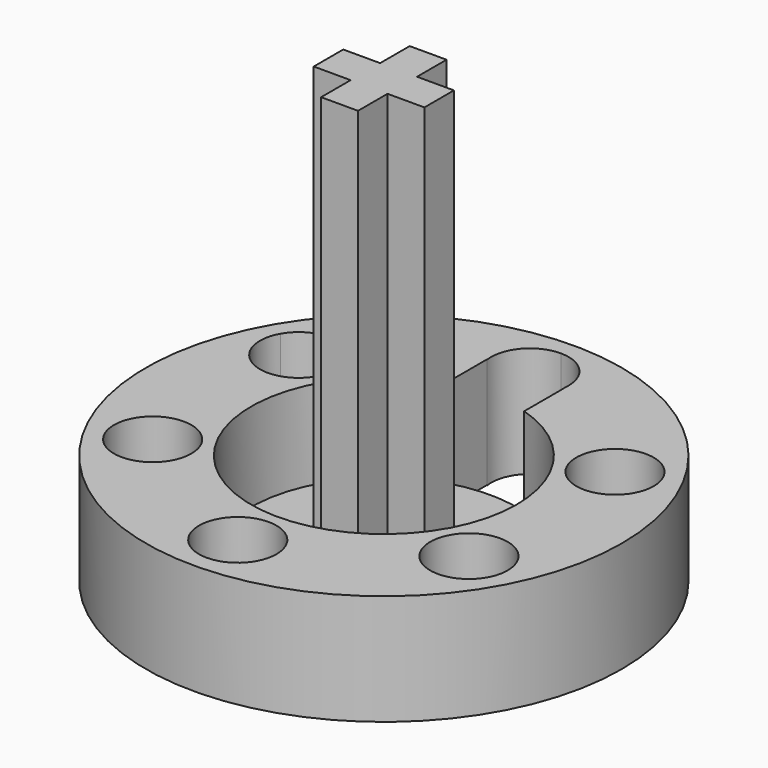
from build123d import *

# Parameters (mm, degrees)
F0_W     = 1.6666666667
F0_H     = 1.6666666667
F2_DEPTH = 20
F1_R     = 10.75
F3_DEPTH = 5
F4_DEPTH = 1


with BuildPart() as f2:
    # F0 (on Top) → F2 (new body)
    with BuildSketch(Plane.XY):
        with Locations((0, 1.6666666667)):
            Rectangle(F0_W, F0_H)
        with Locations((-1.6666666667, 0)):
            Rectangle(F0_W, F0_H)
        with Locations((0, -1.6666666667)):
            Rectangle(F0_W, F0_H)
        Rectangle(F0_W, F0_H)
        with Locations((1.6666666667, 0)):
            Rectangle(F0_W, F0_H)
    extrude(amount=F2_DEPTH)



with BuildPart() as f3:
    # F1 (on Top) → F3 (new body)
    with BuildSketch(Plane.XY):
        Circle(F1_R)
        with BuildLine():
            ThreePointArc((-8.6602540538, 4.9999999724), (-5.0000000138, 8.6602540299), (0, 10))
            ThreePointArc((0, 10), (5.0000000138, 8.6602540299), (8.6602540538, 4.9999999724))
            ThreePointArc((8.6602540538, 4.9999999724), (9.659258267, 2.5881904356), (10, 0))
            ThreePointArc((10, 0), (9.6592582663, -2.5881904384), (8.6602540509, -4.9999999774))
            ThreePointArc((8.6602540509, -4.9999999774), (5.0000000086, -8.6602540329), (-6.2e-09, -10))
            ThreePointArc((-6.2e-09, -10), (-5.0000000165, -8.6602540283), (-8.6602540538, -4.9999999724))
            ThreePointArc((-8.6602540538, -4.9999999724), (-10, 0), (-8.6602540538, 4.9999999724))
        make_face(mode=Mode.SUBTRACT)
        with BuildLine():
            ThreePointArc((8.6602540538, 4.9999999724), (5.0000000138, 8.6602540299), (0, 10))
            ThreePointArc((0, 10), (-5.0000000138, 8.6602540299), (-8.6602540538, 4.9999999724))
            ThreePointArc((-8.6602540538, 4.9999999724), (-10, 0), (-8.6602540538, -4.9999999724))
            ThreePointArc((-8.6602540538, -4.9999999724), (-5.0000000165, -8.6602540283), (-6.2e-09, -10))
            ThreePointArc((-6.2e-09, -10), (5.0000000086, -8.6602540329), (8.6602540509, -4.9999999774))
            ThreePointArc((8.6602540509, -4.9999999774), (9.6592582663, -2.5881904384), (10, 0))
            ThreePointArc((10, 0), (9.659258267, 2.5881904356), (8.6602540538, 4.9999999724))
        make_face()
        with BuildLine():
            ThreePointArc((-5.3947095812, -4.125), (-6.6917762677, -5.8153702001), (-8.6602540538, -4.9999999724))
            ThreePointArc((-8.6602540538, -4.9999999724), (-7.5976428947, -2.4346297999), (-5.3947095812, -4.125))
        make_face(mode=Mode.SUBTRACT)
        with BuildLine():
            ThreePointArc((1.75, -8.25), (1.2374368649, -9.4874368693), (-6.2e-09, -10))
            ThreePointArc((-6.2e-09, -10), (-1.2374368649, -7.0125631307), (1.75, -8.25))
        make_face(mode=Mode.SUBTRACT)
        with BuildLine():
            ThreePointArc((8.8947095812, -4.125), (8.8350797806, -4.5779333163), (8.6602540509, -4.9999999774))
            ThreePointArc((8.6602540509, -4.9999999774), (5.4543393818, -3.6720666837), (8.8947095812, -4.125))
        make_face(mode=Mode.SUBTRACT)
        with BuildLine():
            ThreePointArc((-5.3947095812, 4.125), (-7.5976428947, 2.4346297999), (-8.6602540538, 4.9999999724))
            ThreePointArc((-8.6602540538, 4.9999999724), (-6.6917762677, 5.8153702001), (-5.3947095812, 4.125))
        make_face(mode=Mode.SUBTRACT)
        with BuildLine():
            ThreePointArc((1.75, 5.7391201416), (4.8218253805, 3.5707142143), (6, 0))
            ThreePointArc((6, 0), (-3.5707142143, -4.8218253805), (-1.75, 5.7391201416))
            Line((-1.75, 5.7391201416), (-1.75, 8))
            Line((-1.75, 8), (-1.7320508076, 8))
            ThreePointArc((-1.7320508076, 8), (-1.3228756555, 9.3956439237), (0, 10))
            ThreePointArc((0, 10), (1.2374368671, 9.4874368671), (1.75, 8.25))
            ThreePointArc((1.75, 8.25), (1.745506934, 8.1246782406), (1.7320508076, 8))
            Line((1.7320508076, 8), (1.75, 8))
            Line((1.75, 8), (1.75, 5.7391201416))
        make_face(mode=Mode.SUBTRACT)
        with BuildLine():
            ThreePointArc((8.8947095812, 4.125), (5.4543393811, 3.6720666865), (8.6602540538, 4.9999999724))
            ThreePointArc((8.6602540538, 4.9999999724), (8.8350797814, 4.5779333135), (8.8947095812, 4.125))
        make_face(mode=Mode.SUBTRACT)
    extrude(amount=F3_DEPTH)


with BuildPart() as f2_1:
    add(f2.part)

    add(f3.part)  # F4 merges F3
    # F1 (on Top) → F4 (join)
    with BuildSketch(Plane.XY):
        with BuildLine():
            ThreePointArc((-1.75, 5.7391201416), (-3.5707142143, -4.8218253805), (6, 0))
            ThreePointArc((6, 0), (4.8218253805, 3.5707142143), (1.75, 5.7391201416))
            ThreePointArc((1.75, 5.7391201416), (0, 6), (-1.75, 5.7391201416))
        make_face()
    extrude(amount=F4_DEPTH)


solid = f2_1.part
